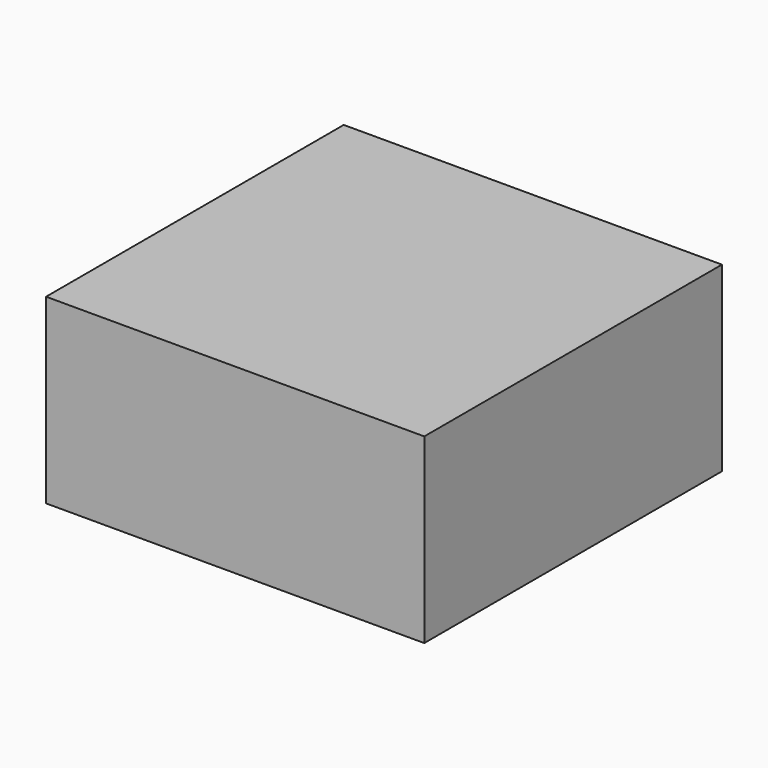
from build123d import *

# Parameters (mm, degrees)
SKETCH_W         = 80
SKETCH_H         = 80
EXTRUDE_DEPTH    = 1.5
EXTRUDE001_DEPTH = 0.035
SKETCH003_W      = 1.05783
SKETCH003_H      = 0.990667
EXTRUDE002_DEPTH = 0.04
SKETCH002_W      = 80
SKETCH002_H      = 70
EXTRUDE003_DEPTH = 0.035
SKETCH006_W      = 103.239367
SKETCH006_H      = 107.526126
EXTRUDE006_DEPTH = 20
SKETCH007_W      = 79.849655
SKETCH007_H      = 69.024075
EXTRUDE007_DEPTH = 0.035
SKETCH009_W      = 166.267383
SKETCH009_H      = 163.569344
EXTRUDE008_DEPTH = 40
SKETCH010_W      = 80.709038
SKETCH010_H      = 82.365145
EXTRUDE009_DEPTH = 2


with BuildPart() as substrate:
    # Sketch → Extrude (new body)
    with BuildSketch(Plane.XY):
        with Locations((40, -40)):
            Rectangle(SKETCH_W, SKETCH_H)
    extrude(amount=-EXTRUDE_DEPTH)


with BuildPart() as antenna_patch:
    # Sketch001 → Extrude001 (new body)
    with BuildSketch(Plane.XY):
        Polygon((32, -2), (54.5, -2), (54.5, -4), (41, -4), (41, -9), (40, -9), (40, -4), (36, -4), (36, -10), (32, -10), align=None)
    extrude(amount=EXTRUDE001_DEPTH)


with BuildPart() as obj1:
    # Sketch003 → Extrude002 (new body)
    with BuildSketch(Plane.XY):
        with Locations((40.512497, -9.496429)):
            Rectangle(SKETCH003_W, SKETCH003_H)
    extrude(amount=EXTRUDE002_DEPTH)


with BuildPart() as top_gnd_patch:
    # Sketch002 → Extrude003 (new body)
    with BuildSketch(Plane.XY):
        with Locations((40, -45)):
            Rectangle(SKETCH002_W, SKETCH002_H)
    extrude(amount=EXTRUDE003_DEPTH)


with BuildPart() as radiationbox:
    # Sketch006 → Extrude006 (new body, symmetric)
    with BuildSketch(Plane.XY):
        with Locations((41.161642, -38.670676)):
            Rectangle(SKETCH006_W, SKETCH006_H)
    extrude(amount=EXTRUDE006_DEPTH, both=True)


with BuildPart() as bottom_gnd_patch:
    # Sketch007 → Extrude007 (new body)
    with BuildSketch(Plane.XY.offset(-1.5)):
        with Locations((39.924827, -44.533693)):
            Rectangle(SKETCH007_W, SKETCH007_H)
    extrude(amount=-EXTRUDE007_DEPTH)


with BuildPart() as obj2:
    # Sketch009 → Extrude008 (new body, symmetric)
    with BuildSketch(Plane.XY):
        with Locations((37.386167, -42.342373)):
            Rectangle(SKETCH009_W, SKETCH009_H)
    extrude(amount=EXTRUDE008_DEPTH, both=True)


with BuildPart() as simulationmodelbox:
    # Sketch010 → Extrude009 (new body, symmetric)
    with BuildSketch(Plane.XY):
        with Locations((40.354519, -39.535255)):
            Rectangle(SKETCH010_W, SKETCH010_H)
    extrude(amount=EXTRUDE009_DEPTH, both=True)


solid = Compound([substrate.part, antenna_patch.part, obj1.part, top_gnd_patch.part, radiationbox.part, bottom_gnd_patch.part, obj2.part, simulationmodelbox.part])
